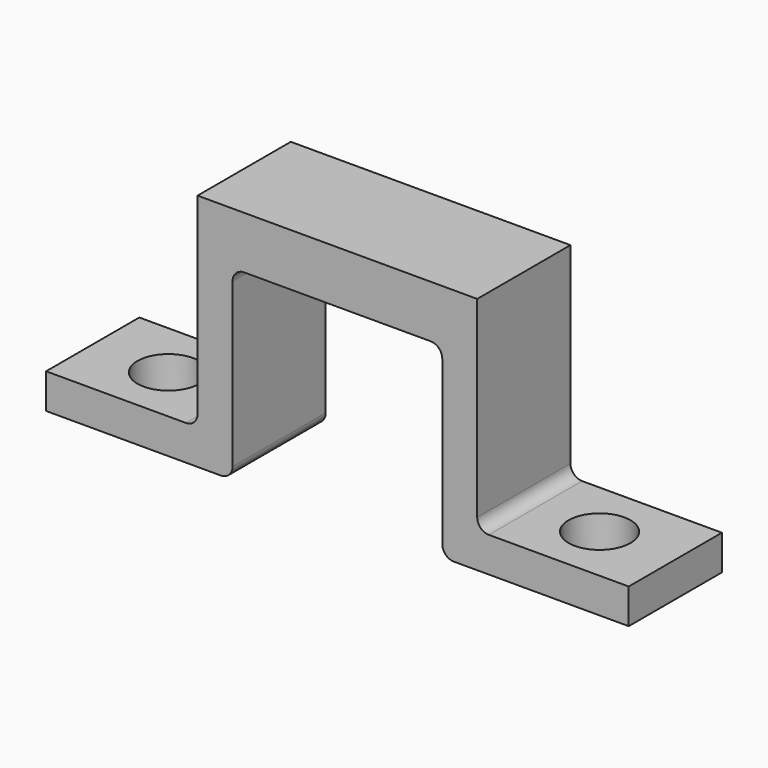
from build123d import *

# Parameters (mm, degrees)
F0_W     = 127
F0_H     = 52.07
F1_DEPTH = 12.7
F2_W     = 45.72
F2_H     = 25.4
F3_DEPTH = 40.64
F4_R     = 2.54
F5_W     = 33.02
F5_H     = 25.4
F6_DEPTH = 44.45
F7_R     = 2.54
F8_D     = 13.49248


with BuildPart() as f1:
    # F0 (on Front) → F1 (new body, symmetric)
    with BuildSketch(Plane.XZ):
        Rectangle(F0_W, F0_H)
    extrude(amount=F1_DEPTH, both=True)

    # F2 (on face) → F3 (cut)
    with BuildSketch(Plane(origin=(0, 0, -26.035), x_dir=(1, 0, 0), z_dir=(0, 0, -1))):
        Rectangle(F2_W, F2_H)
    extrude(amount=-F3_DEPTH, mode=Mode.SUBTRACT)

    # F4
    f4_edges = [f1.edges().sort_by_distance(p)[0] for p in [
        (-22.86, 0, 14.605),
        (22.86, 0, 14.605),
    ]]
    fillet(f4_edges, radius=F4_R)

    # F5 (on face) → F6 (cut)
    with BuildSketch(Plane.XY.offset(26.035)):
        with Locations((-46.99, 0)):
            Rectangle(F5_W, F5_H)
        with Locations((46.99, 0)):
            Rectangle(F5_W, F5_H)
    extrude(amount=-F6_DEPTH, mode=Mode.SUBTRACT)

    # F7
    f7_edges = [f1.edges().sort_by_distance(p)[0] for p in [
        (-30.48, 0, -18.415),
        (30.48, 0, -18.415),
        (-22.86, 0, -26.035),
        (22.86, 0, -26.035),
    ]]
    fillet(f7_edges, radius=F7_R)

    # F8 (through all)
    with Locations(Plane.XY.offset(26.035)):
        with Locations((-46.99, 0), (46.99, 0)):
            Hole(F8_D / 2)


solid = f1.part
